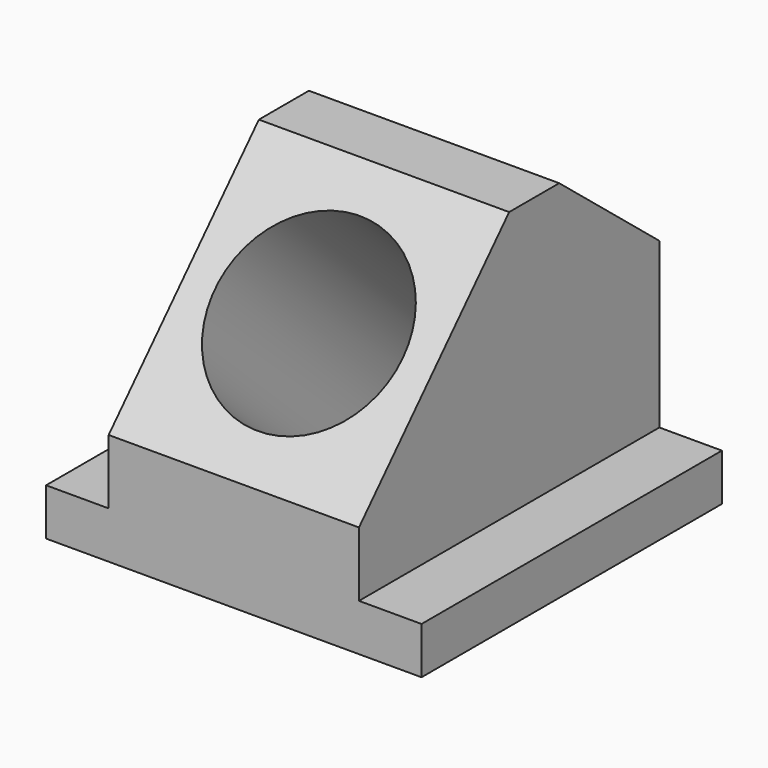
from build123d import *

# Parameters (mm, degrees)
F0_W     = 12.773345685
F0_H     = 76.2
F0_W_2   = 12.626654315
F0_W_3   = 50.8
F1_DEPTH = 9.525
F2_W     = 50.8
F2_H     = 76.2
F3_DEPTH = 63.5
F5_DEPTH = 107.696
F6_R     = 19.05
F7_DEPTH = 89.662


with BuildPart() as f1:
    # F0 (on Top) → F1 (new body)
    with BuildSketch(Plane.XY):
        with Locations((-31.2884969145, -3.5850352719)):
            Rectangle(F0_W, F0_H)
        with Locations((32.2115030855, -3.5850352719)):
            Rectangle(F0_W_2, F0_H)
        with Locations((0.498175928, -3.5850352719)):
            Rectangle(F0_W_3, F0_H)
    extrude(amount=F1_DEPTH)

    # F2 (on face) → F3 (join)
    with BuildSketch(Plane(origin=(0, 0, 0), x_dir=(1, 0, 0), z_dir=(0, 0, -1))):
        with Locations((0.424830243, 3.5850352719)):
            Rectangle(F2_W, F2_H)
    extrude(amount=-F3_DEPTH)

    # F4 (on face) → F5 (cut)
    with BuildSketch(Plane(origin=(-24.975169757, 0, 0), x_dir=(0, -1, 0), z_dir=(-1, 0, 0))):
        Polygon((-34.5149647281, 63.5), (-34.5149647281, 42.8782887757), (-9.1149647281, 63.5), align=None)
        Polygon((41.6850352719, 63.5), (3.5850352719, 63.5), (41.6850352719, 22.6427521481), align=None)
    extrude(amount=-F5_DEPTH, mode=Mode.SUBTRACT)

    # F6 (on face) → F7 (cut)
    with BuildSketch(Plane(origin=(0, -33.5902159411, 31.3233831117), x_dir=(1, 0, 0), z_dir=(0, -0.7313537016, 0.6819983601))):
        with Locations((0.424830243, 16.0633533902)):
            Circle(F6_R)
    extrude(amount=-F7_DEPTH, mode=Mode.SUBTRACT)


solid = f1.part
